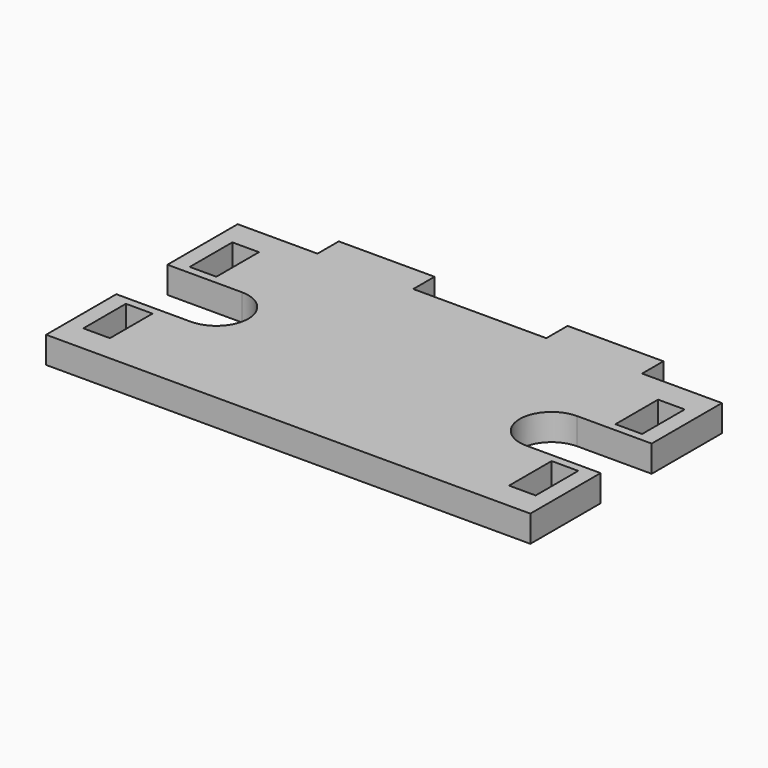
from build123d import *

# Parameters (mm, degrees)
F0_W     = 5
F0_H     = 10
F1_DEPTH = 5


with BuildPart() as f1:
    # F0 (on Top) → F1 (new body)
    with BuildSketch(Plane.XY):
        with BuildLine():
            Line((-30.5, 22.5), (-45.5, 22.5))
            Line((-45.5, 22.5), (-45.5, 6))
            Line((-45.5, 6), (-31.5, 6))
            ThreePointArc((-31.5, 6), (-25.5, 0), (-31.5, -6))
            Line((-31.5, -6), (-45.5, -6))
            Line((-45.5, -6), (-45.5, -22.5))
            Line((-45.5, -22.5), (45.5, -22.5))
            Line((45.5, -22.5), (45.5, -6))
            Line((45.5, -6), (31.5, -6))
            ThreePointArc((31.5, -6), (25.5, 0), (31.5, 6))
            Line((31.5, 6), (45.5, 6))
            Line((45.5, 6), (45.5, 22.5))
            Line((45.5, 22.5), (30.5, 22.5))
            Line((30.5, 22.5), (30.5, 27.5))
            Line((30.5, 27.5), (12.5, 27.5))
            Line((12.5, 27.5), (12.5, 22.5))
            Line((12.5, 22.5), (-12.5, 22.5))
            Line((-12.5, 22.5), (-12.5, 27.5))
            Line((-12.5, 27.5), (-30.5, 27.5))
            Line((-30.5, 27.5), (-30.5, 22.5))
        make_face()
        with Locations((-40, -12.5)):
            Rectangle(F0_W, F0_H, mode=Mode.SUBTRACT)
        with Locations((40, -12.5)):
            Rectangle(F0_W, F0_H, mode=Mode.SUBTRACT)
        with Locations((-40, 12.5)):
            Rectangle(F0_W, F0_H, mode=Mode.SUBTRACT)
        with Locations((40, 12.5)):
            Rectangle(F0_W, F0_H, mode=Mode.SUBTRACT)
    extrude(amount=F1_DEPTH)


solid = f1.part
